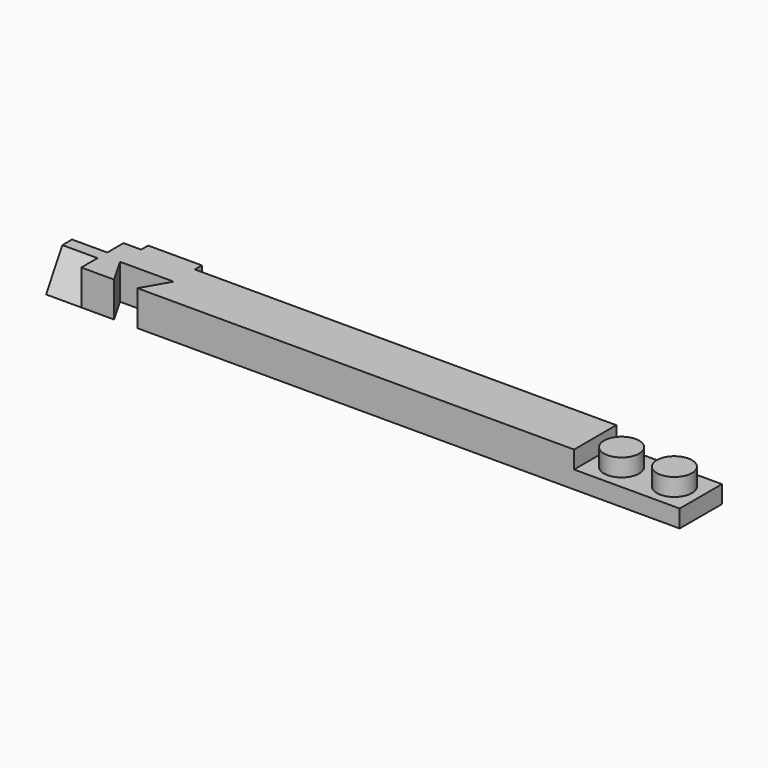
from build123d import *

# Parameters (mm, degrees)
SKETCH_W        = 170
SKETCH_H        = 15
PAD_DEPTH       = 10
SKETCH001_W     = 35
SKETCH001_H     = 25
POCKET_DEPTH    = 5
SKETCH002_R     = 5
PAD001_DEPTH    = 5
PAD002_DEPTH    = 10
POCKET001_DEPTH = 10
SKETCH005_W     = 15.25
SKETCH005_H     = 10
PAD003_DEPTH    = 2.5


with BuildPart() as part:
    # Sketch → Pad (new body)
    with BuildSketch(Plane.XY):
        with Locations((-20.728933, -1.58076)):
            Rectangle(SKETCH_W, SKETCH_H)
    extrude(amount=PAD_DEPTH)

    # Sketch001 (on Face6 of Pad) → Pocket (cut)
    with BuildSketch(Plane.XY.offset(10)):
        with Locations((51.771067, -1.58076)):
            Rectangle(SKETCH001_W, SKETCH001_H)
    extrude(amount=-POCKET_DEPTH, mode=Mode.SUBTRACT)

    # Sketch002 (on Face7 of Pocket) → Pad001 (join)
    with BuildSketch(Plane.XY.offset(5)):
        with Locations((56.771067, -1.58076)):
            Circle(SKETCH002_R)
        with Locations((41.771067, -1.58076)):
            Circle(SKETCH002_R)
    extrude(amount=PAD001_DEPTH)

    # Sketch003 (on Face1 of Pad001) → Pad002 (join)
    with BuildSketch(Plane(origin=(-105.728933, 0, 0), x_dir=(0, -1, 0), z_dir=(-1, 0, 0))):
        Polygon((-5.91924, 0), (-0.145737, 10), (3.307257, 10), (9.08076, 0), align=None)
    extrude(amount=PAD002_DEPTH)

    # Sketch004 (on Face3 of Pad002) → Pocket001 (cut)
    with BuildSketch(Plane.XY.offset(10)):
        Polygon((-93.103933, -14.787648), (-100.728933, -1.58076), (-85.478933, -1.58076), align=None)
    extrude(amount=-POCKET001_DEPTH, mode=Mode.SUBTRACT)

    # Sketch005 (on Face9 of Pocket001) → Pad003 (join)
    with BuildSketch(Plane(origin=(0, 5.91924, 0), x_dir=(-1, 0, 0), z_dir=(0, 1, 0))):
        with Locations((93.103933, 5)):
            Rectangle(SKETCH005_W, SKETCH005_H)
    extrude(amount=PAD003_DEPTH)


solid = part.part
